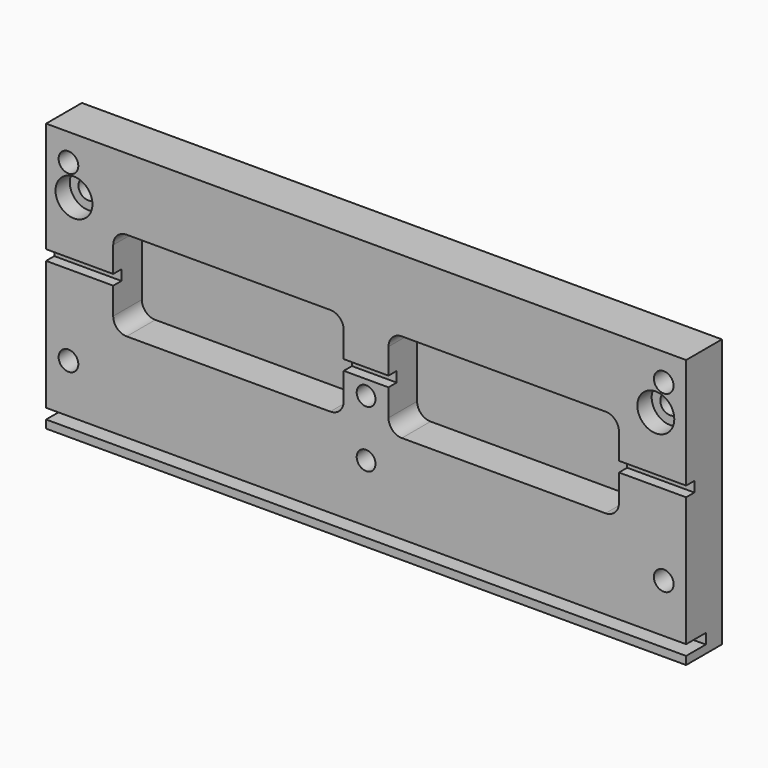
from build123d import *

# Parameters (mm, degrees)
F0_W            = 143
F0_H            = 60
F1_DEPTH        = 10
F2_W            = 51.5
F2_H            = 20
F3_DEPTH        = 8
F4_R            = 3
F5_W            = 143
F5_H            = 2.3
F6_DEPTH        = 5.5
F7_W            = 143
F7_H            = 2.3
F8_DEPTH        = 2.3
F10_D           = 4.4
F10_CBORE_D     = 8.25
F10_CBORE_DEPTH = 4
F12_D           = 4.4
F12_CBORE_D     = 8.25
F12_CBORE_DEPTH = 4
F14_D           = 4.2


with BuildPart() as f1:
    # F0 (on Front) → F1 (new body)
    with BuildSketch(Plane.XZ):
        Rectangle(F0_W, F0_H)
    extrude(amount=F1_DEPTH)

    # F2 (on face) → F3 (cut)
    with BuildSketch(Plane.XZ.offset(10)):
        with Locations((-30.75, 4)):
            Rectangle(F2_W, F2_H)
        with Locations((30.75, 4)):
            Rectangle(F2_W, F2_H)
    extrude(amount=-F3_DEPTH, mode=Mode.SUBTRACT)

    # F4
    f4_edges = [f1.edges().sort_by_distance(p)[0] for p in [
        (-56.5, -6, 14),
        (-5, -6, -6),
        (56.5, -6, -6),
        (-5, -6, 14),
        (56.5, -6, 14),
        (-56.5, -6, -6),
        (5, -6, -6),
        (5, -6, 14),
    ]]
    fillet(f4_edges, radius=F4_R)

    # F5 (on face) → F6 (cut)
    with BuildSketch(Plane.XZ.offset(10)):
        with Locations((0, -27.05)):
            Rectangle(F5_W, F5_H)
    extrude(amount=-F6_DEPTH, mode=Mode.SUBTRACT)

    # F7 (on face) → F8 (cut)
    with BuildSketch(Plane.XZ.offset(10)):
        with Locations((0, 4.15)):
            Rectangle(F7_W, F7_H)
    extrude(amount=-F8_DEPTH, mode=Mode.SUBTRACT)

    # F10 (through all)
    with Locations(Plane(origin=(0, 0, 0), x_dir=(-1, 0, 0), z_dir=(0, 1, 0))):
        with Locations((-66.5, 24), (-66.5, -15), (66.5, -15), (66.5, 24)):
            CounterBoreHole(F10_D / 2, F10_CBORE_D / 2, F10_CBORE_DEPTH)

    # F12 (through all)
    with Locations(Plane.XZ.offset(10)):
        with Locations((-65.267855823, 17.5), (64.732144177, 17.5)):
            CounterBoreHole(F12_D / 2, F12_CBORE_D / 2, F12_CBORE_DEPTH)

    # F14 (through all)
    with Locations(Plane(origin=(0, 0, 0), x_dir=(-1, 0, 0), z_dir=(0, 1, 0))):
        with Locations((0, -0.3), (0, -13)):
            Hole(F14_D / 2)


solid = f1.part
